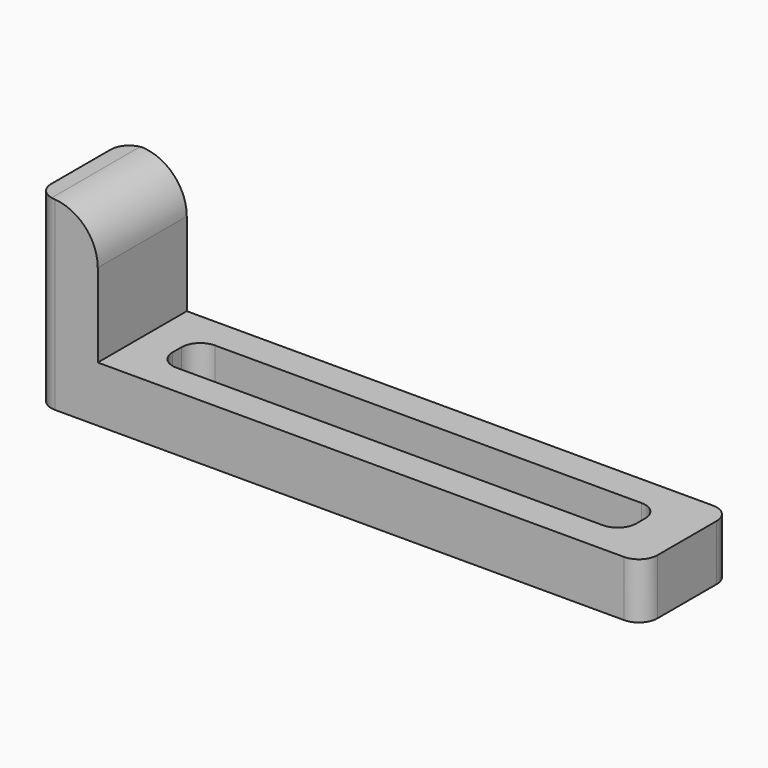
from build123d import *

# Parameters (mm, degrees)
F0_W     = 58.757578
F0_H     = 12
F0_W_2   = 50
F0_H_2   = 5.2
F1_DEPTH = 6
F0_W_3   = 6.612889
F2_DEPTH = 20
F3_R     = 2
F4_R     = 2
F5_R     = 2
F6_R     = 2
F7_R     = 5


with BuildPart() as f1:
    # F0 (on Top) → F1 (new body)
    with BuildSketch(Plane.XY):
        with Locations((13.568355, 32.723509)):
            Rectangle(F0_W, F0_H)
        with Locations((12.947144, 32.723509)):
            Rectangle(F0_W_2, F0_H_2, mode=Mode.SUBTRACT)
    extrude(amount=F1_DEPTH)

    # F0 (on Top) → F2 (join)
    with BuildSketch(Plane.XY):
        with Locations((-19.116878, 32.723509)):
            Rectangle(F0_W_3, F0_H)
    extrude(amount=F2_DEPTH)

    # F3
    f3_edges = [f1.edges().sort_by_distance(p)[0] for p in [
        (42.947144, 26.723509, 3),
    ]]
    fillet(f3_edges, radius=F3_R)

    # F4
    f4_edges = [f1.edges().sort_by_distance(p)[0] for p in [
        (42.947144, 38.723509, 3),
    ]]
    fillet(f4_edges, radius=F4_R)

    # F5
    f5_edges = [f1.edges().sort_by_distance(p)[0] for p in [
        (-12.052856, 35.323509, 3),
        (37.947144, 35.323509, 3),
        (37.947144, 30.123509, 3),
        (-12.052856, 30.123509, 3),
    ]]
    fillet(f5_edges, radius=F5_R)

    # F6
    f6_edges = [f1.edges().sort_by_distance(p)[0] for p in [
        (-22.423323, 38.723509, 10),
        (-22.423323, 26.723509, 10),
    ]]
    fillet(f6_edges, radius=F6_R)

    # F7
    f7_edges = [f1.edges().sort_by_distance(p)[0] for p in [
        (-15.810434, 32.723509, 20),
    ]]
    fillet(f7_edges, radius=F7_R)


solid = f1.part
